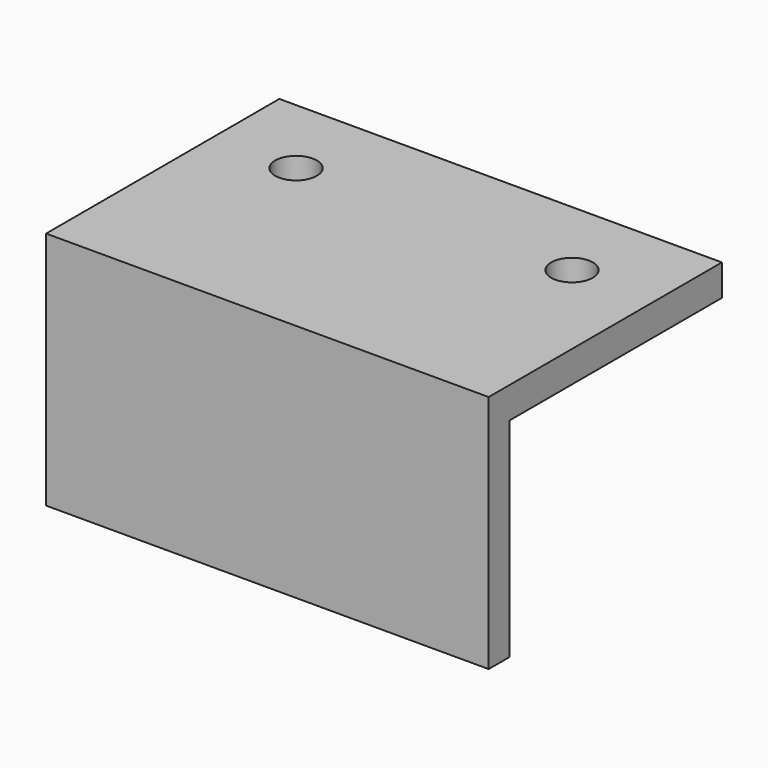
from build123d import *

# Parameters (mm, degrees)
SKETCH002_W     = 42.5
SKETCH002_H     = 28
PAD_DEPTH       = 3
SKETCH_R        = 2
POCKET_DEPTH    = 5
SKETCH001_R     = 2
POCKET001_DEPTH = 5
SKETCH003_W     = 42.5
SKETCH003_H     = 2.5
PAD001_DEPTH    = 20


with BuildPart() as part:
    # Sketch002 → Pad (new body)
    with BuildSketch(Plane.XY):
        with Locations((13.25, -6)):
            Rectangle(SKETCH002_W, SKETCH002_H)
    extrude(amount=PAD_DEPTH)

    # Sketch → Pocket (cut)
    with BuildSketch(Plane.XY):
        Circle(SKETCH_R)
    extrude(amount=POCKET_DEPTH, mode=Mode.SUBTRACT)

    # Sketch001 → Pocket001 (cut)
    with BuildSketch(Plane.XY):
        with Locations((26.5, 0)):
            Circle(SKETCH001_R)
    extrude(amount=POCKET001_DEPTH, mode=Mode.SUBTRACT)

    # Sketch003 → Pad001 (join)
    with BuildSketch(Plane.XY):
        with Locations((13.25, -18.75)):
            Rectangle(SKETCH003_W, SKETCH003_H)
    extrude(amount=-PAD001_DEPTH)


solid = part.part
